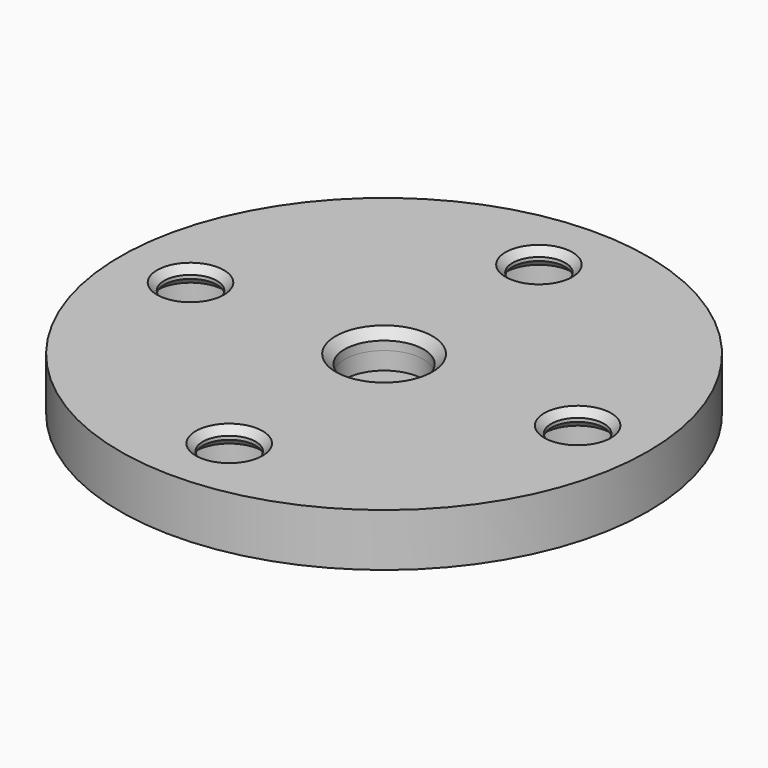
from build123d import *

# Parameters (mm, degrees)
SKETCH_R             = 15
SKETCH_R_2           = 1.5
PAD_DEPTH            = 3
SKETCH002_R          = 2.25
POCKET_DEPTH         = 2
SKETCH001_R          = 5
POCKET001_DEPTH      = 1
SKETCH003_R          = 2.5
POCKET002_DEPTH      = 2
POCKET002_FACE17_R   = 5
POCKET002_FACE17_R_2 = 2.25
PAD001_DEPTH         = 1
CHAMFER_SIZE         = 0.4
CHAMFER001_SIZE      = 0.5
CHAMFER002_SIZE      = 0.4
CHAMFER003_SIZE      = 0.5


with BuildPart() as part:
    # Sketch → Pad (new body)
    with BuildSketch(Plane.XY):
        Circle(SKETCH_R)
        with Locations((0, 11)):
            Circle(SKETCH_R_2, mode=Mode.SUBTRACT)
        with Locations((-11, 0)):
            Circle(SKETCH_R_2, mode=Mode.SUBTRACT)
        with Locations((0, -11)):
            Circle(SKETCH_R_2, mode=Mode.SUBTRACT)
        with Locations((11, 0)):
            Circle(SKETCH_R_2, mode=Mode.SUBTRACT)
    extrude(amount=PAD_DEPTH)

    # Sketch002 (on Face7 of Pad) → Pocket (cut)
    with BuildSketch(Plane.XY.offset(3)):
        Circle(SKETCH002_R)
    extrude(amount=-POCKET_DEPTH, mode=Mode.SUBTRACT)

    # Sketch001 (on Face7 of Pad) → Pocket001 (cut)
    with BuildSketch(Plane.XY.offset(3)):
        Circle(SKETCH001_R)
    extrude(amount=-POCKET001_DEPTH, mode=Mode.SUBTRACT)

    # Sketch003 (on Face2 of Pocket001) → Pocket002 (cut)
    with BuildSketch(Plane(origin=(0, 0, 0), x_dir=(1, 0, 0), z_dir=(0, 0, -1))):
        with Locations((0, 11)):
            Circle(SKETCH003_R)
        with Locations((11, 0)):
            Circle(SKETCH003_R)
        with Locations((0, -11)):
            Circle(SKETCH003_R)
        with Locations((-11, 0)):
            Circle(SKETCH003_R)
    extrude(amount=-POCKET002_DEPTH, mode=Mode.SUBTRACT)

    # Pocket002 Face17 → Pad001 (add)
    with BuildSketch(Plane(origin=(0, 0, 2), x_dir=(0, 1, 0), z_dir=(0, 0, 1))):
        Circle(POCKET002_FACE17_R)
        Circle(POCKET002_FACE17_R_2, mode=Mode.SUBTRACT)
    extrude(amount=PAD001_DEPTH)

    # Chamfer
    chamfer_edges = [part.edges().sort_by_distance(p)[0] for p in [
        (-1.5, -11, 3),
        (-12.5, 0, 3),
        (-1.5, 11, 3),
        (9.5, 0, 3),
    ]]
    chamfer(chamfer_edges, length=CHAMFER_SIZE)

    # Chamfer001
    chamfer001_edges = [part.edges().sort_by_distance(p)[0] for p in [
        (-2.25, 0, 3),
    ]]
    chamfer(chamfer001_edges, length=CHAMFER001_SIZE)

    # Chamfer002
    chamfer002_edges = [part.edges().sort_by_distance(p)[0] for p in [
        (9.5, 0, 2),
        (-1.5, -11, 2),
        (-12.5, 0, 2),
        (-1.5, 11, 2),
    ]]
    chamfer(chamfer002_edges, length=CHAMFER002_SIZE)

    # Chamfer003
    chamfer003_edges = [part.edges().sort_by_distance(p)[0] for p in [
        (-2.5, -11, 0),
        (8.5, 0, 0),
        (-13.5, 0, 0),
        (-2.5, 11, 0),
    ]]
    chamfer(chamfer003_edges, length=CHAMFER003_SIZE)


solid = part.part
